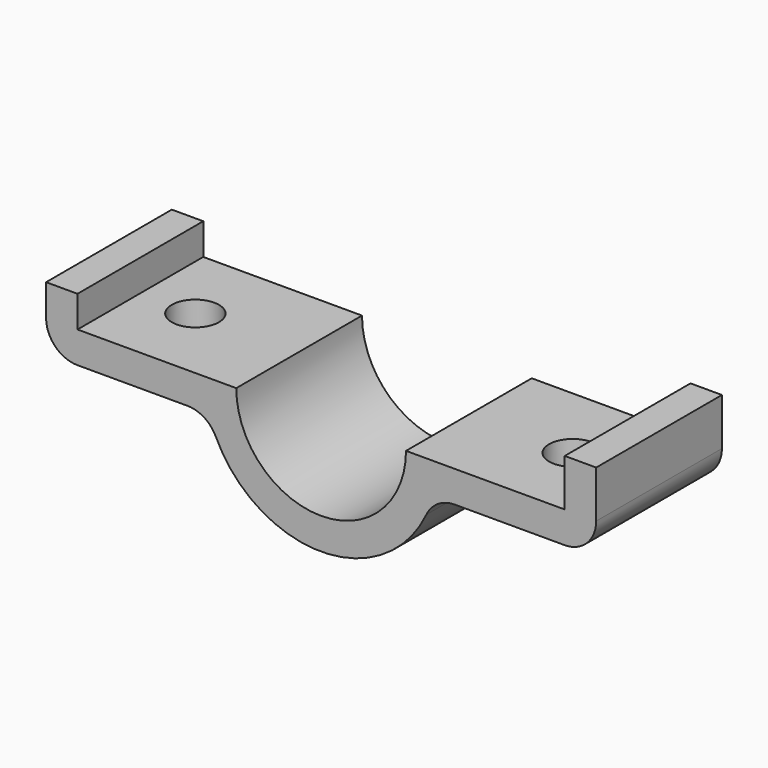
from build123d import *

# Parameters (mm, degrees)
F1_DEPTH = 25
F3_D     = 7.5
F4_D     = 7.5


with BuildPart() as f1:
    # F0 (on Front) → F1 (new body)
    with BuildSketch(Plane.XZ):
        with BuildLine():
            Line((-49.944923, 46.371131), (-54.944923, 46.371131))
            Line((-54.944923, 46.371131), (-54.944923, 41.371131))
            ThreePointArc((-54.944923, 41.371131), (-53.480457, 37.835597), (-49.944923, 36.371131))
            Line((-49.944923, 36.371131), (-32.461094, 36.371131))
            ThreePointArc((-32.461094, 36.371131), (-29.781383, 35.592405), (-27.936377, 33.498791))
            ThreePointArc((-27.936377, 33.498791), (-11.194923, 22.871131), (5.54653, 33.498791))
            ThreePointArc((5.54653, 33.498791), (7.391536, 35.592405), (10.071247, 36.371131))
            Line((10.071247, 36.371131), (27.555077, 36.371131))
            ThreePointArc((27.555077, 36.371131), (31.09061, 37.835597), (32.555077, 41.371131))
            Line((32.555077, 41.371131), (32.555077, 48.871131))
            Line((32.555077, 48.871131), (27.555077, 48.871131))
            Line((27.555077, 48.871131), (27.555077, 41.371131))
            Line((27.555077, 41.371131), (2.305077, 41.371131))
            ThreePointArc((2.305077, 41.371131), (-11.194923, 27.871131), (-24.694923, 41.371131))
            Line((-24.694923, 41.371131), (-49.944923, 41.371131))
            Line((-49.944923, 41.371131), (-49.944923, 46.371131))
        make_face()
    extrude(amount=F1_DEPTH)

    # F3 (through all)
    with Locations(Plane(origin=(0, 0, 36.371131), x_dir=(1, 0, 0), z_dir=(0, 0, -1))):
        with Locations((-41.203009, 12.5)):
            Hole(F3_D / 2)

    # F4 (through all)
    with Locations(Plane(origin=(0, 0, 36.371131), x_dir=(1, 0, 0), z_dir=(0, 0, -1))):
        with Locations((18.813162, 12.5)):
            Hole(F4_D / 2)


solid = f1.part
